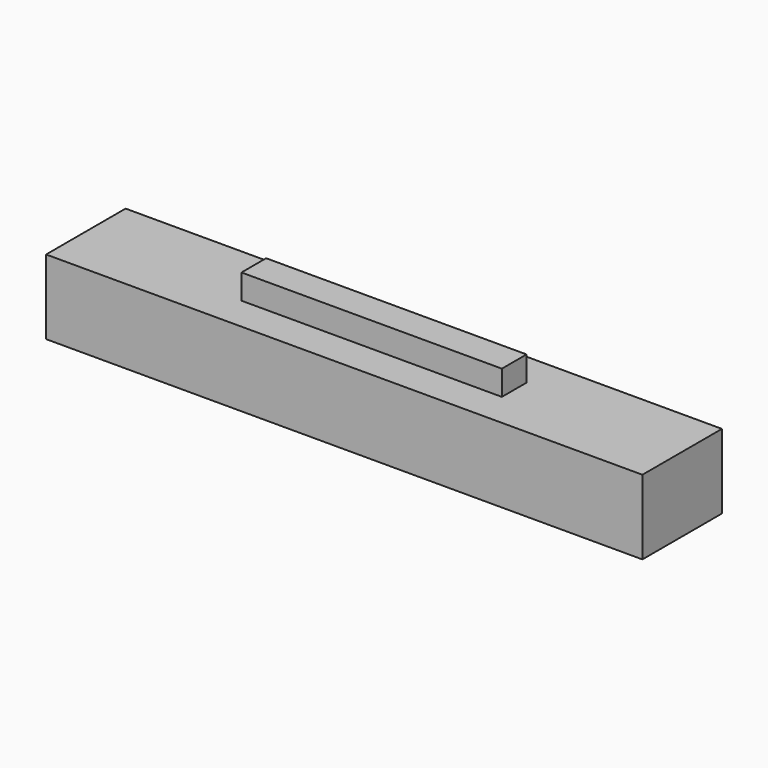
from build123d import *

# Parameters (mm, degrees)
F0_W     = 152.4
F0_H     = 19.05
F1_DEPTH = 25.4
F2_W     = 66.552096
F2_H     = 7.88629
F3_DEPTH = 6.35


with BuildPart() as f1:
    # F0 (on Front) → F1 (new body)
    with BuildSketch(Plane.XZ):
        Rectangle(F0_W, F0_H)
    extrude(amount=F1_DEPTH)

    # F2 (on face) → F3 (join)
    with BuildSketch(Plane.XY.offset(9.525)):
        with Locations((0, -12.7)):
            Rectangle(F2_W, F2_H)
    extrude(amount=F3_DEPTH)


solid = f1.part
